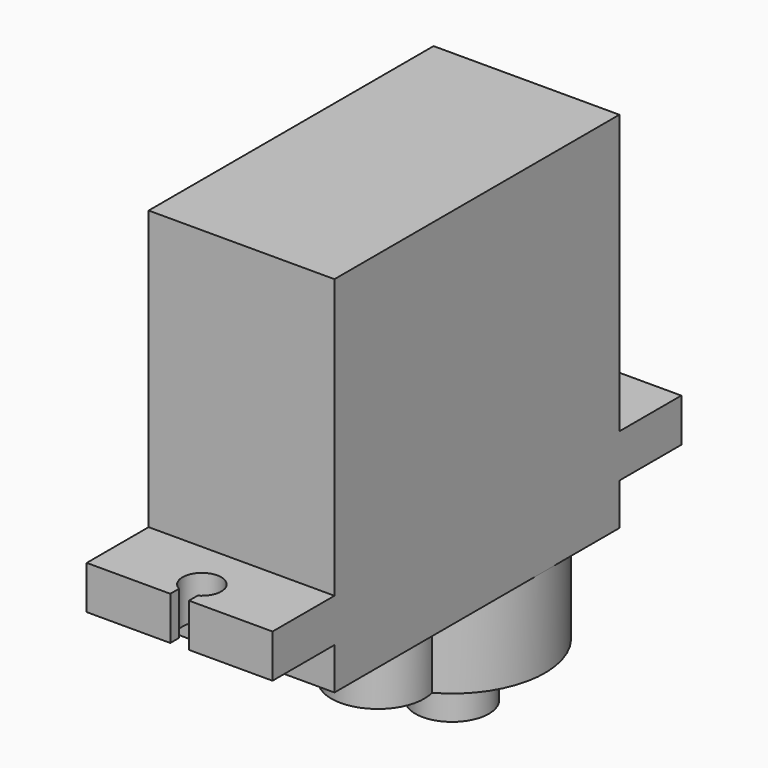
from build123d import *

# Parameters (mm, degrees)
SKETCH058_W             = 23
SKETCH058_H             = 12
PAD028_DEPTH            = 23.5
SKETCH059_W             = 5
SKETCH059_H             = 12
PAD029_DEPTH            = 2.8
POCKET025_DEPTH         = 5
PAD030_DEPTH            = 5.8
SKETCH062_R             = 2.375
SKETCH062_R_2           = 1.2
PAD031_DEPTH            = 3.5
BODY009_ROLL_ANGLE      = -90
BODY009_PLACEMENT_ANGLE = -90


with BuildPart() as part:
    # Sketch058 → Pad028 (new body)
    with BuildSketch(Plane.XZ):
        with Locations((11.5, 6)):
            Rectangle(SKETCH058_W, SKETCH058_H)
    extrude(amount=-PAD028_DEPTH)

    # Sketch059 → Pad029 (join)
    with BuildSketch(Plane.XZ.offset(-18)):
        with Locations((-2.5, 6)):
            Rectangle(SKETCH059_W, SKETCH059_H)
        with Locations((25.5, 6)):
            Rectangle(SKETCH059_W, SKETCH059_H)
    extrude(amount=-PAD029_DEPTH)

    # Sketch060 → Pocket025 (cut)
    with BuildSketch(Plane(origin=(-3.2, 20.8, 6), x_dir=(1, 0, 0), z_dir=(0, -1, 0))):
        with BuildLine():
            ThreePointArc((-1.096586, -0.6), (1.25, 0), (-1.096586, 0.6))
            Line((-1.8, 0.6), (-1.096586, 0.6))
            Line((-1.8, 0), (-1.8, 0.6))
            Line((-1.8, 0), (-1.8, -0.6))
            Line((-1.8, -0.6), (-1.096586, -0.6))
        make_face()
        with BuildLine():
            ThreePointArc((30.496586, 0.6), (28.15, 0), (30.496586, -0.6))
            Line((31.2, -0.6), (30.496586, -0.6))
            Line((31.2, 0), (31.2, -0.6))
            Line((31.2, 0), (31.2, 0.6))
            Line((31.2, 0.6), (30.496586, 0.6))
        make_face()
    extrude(amount=POCKET025_DEPTH, mode=Mode.SUBTRACT)

    # Sketch061 → Pad030 (join)
    with BuildSketch(Plane(origin=(6, 23.5, 6), x_dir=(1, 0, 0), z_dir=(0, -1, 0))):
        with BuildLine():
            ThreePointArc((5.25, 2.904738), (-6, 0), (5.25, -2.904738))
            ThreePointArc((5.25, -2.904738), (9, 0), (5.25, 2.904738))
        make_face()
    extrude(amount=-PAD030_DEPTH)

    # Sketch062 → Pad031 (join)
    with BuildSketch(Plane(origin=(6, 29.3, 6), x_dir=(1, 0, 0), z_dir=(0, -1, 0))):
        Circle(SKETCH062_R)
        Circle(SKETCH062_R_2, mode=Mode.SUBTRACT)
    extrude(amount=-PAD031_DEPTH)


with BuildPart() as part_1:
    # Body009 roll: moved
    add(part.part.rotate(Axis((0, 0, 0), (1, 0, 0)), BODY009_ROLL_ANGLE))


with BuildPart() as part_2:
    # Body009 placement: moved
    add(part_1.part.moved(Location((-39, 6, 34.4))).rotate(Axis((-39, 6, 34.4), (0, 0, 1)), BODY009_PLACEMENT_ANGLE))


solid = part_2.part
